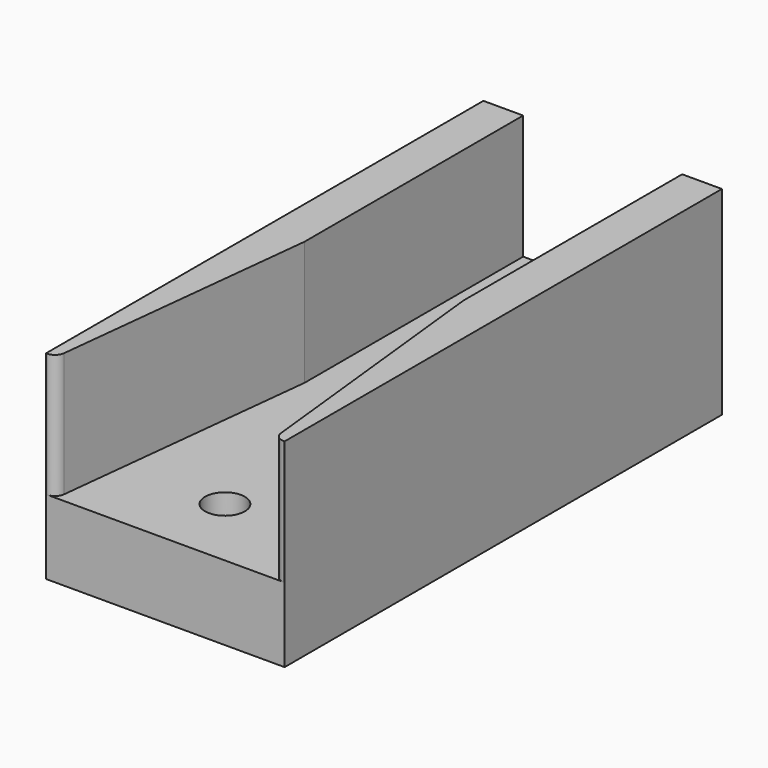
from build123d import *

# Parameters (mm, degrees)
F0_W           = 48
F0_H           = 110
F1_DEPTH       = 7.5
F4_DEPTH       = 25
F6_D           = 5.5
F6_CBORE_D     = 8
F6_CBORE_DEPTH = 6


with BuildPart() as f1:
    # F0 (on Top) → F1 (new body, symmetric)
    with BuildSketch(Plane.XY):
        with Locations((9.722433, 22.829119)):
            Rectangle(F0_W, F0_H)
    extrude(amount=F1_DEPTH, both=True)

    # F3 (on face) → F4 (join)
    with BuildSketch(Plane.XY.offset(7.5)):
        with BuildLine():
            Line((-6.277567, 22.829119), (-6.277567, 77.829119))
            Line((-6.277567, 77.829119), (-14.277567, 77.829119))
            Line((-14.277567, 77.829119), (-14.277567, -32.170881))
            Line((-14.277567, -32.170881), (-14.071251, -32.170881))
            ThreePointArc((-14.071251, -32.170881), (-12.735921, -31.659805), (-12.083047, -30.387776))
            Line((-12.083047, -30.387776), (-6.277567, 22.829119))
        make_face()
        with BuildLine():
            Line((33.722433, 77.829119), (25.722433, 77.829119))
            Line((25.722433, 77.829119), (25.722433, 22.829119))
            Line((25.722433, 22.829119), (31.527912, -30.387776))
            ThreePointArc((31.527912, -30.387776), (32.180787, -31.659805), (33.516117, -32.170881))
            Line((33.516117, -32.170881), (33.722433, -32.170881))
            Line((33.722433, -32.170881), (33.722433, 77.829119))
        make_face()
    extrude(amount=F4_DEPTH)

    # F6 (through all)
    with Locations(Plane.XY.offset(7.5)):
        with Locations((9.722433, 42.829119), (9.722433, 62.829119), (9.722433, 2.829119), (9.722433, -17.170881)):
            CounterBoreHole(F6_D / 2, F6_CBORE_D / 2, F6_CBORE_DEPTH)


solid = f1.part
